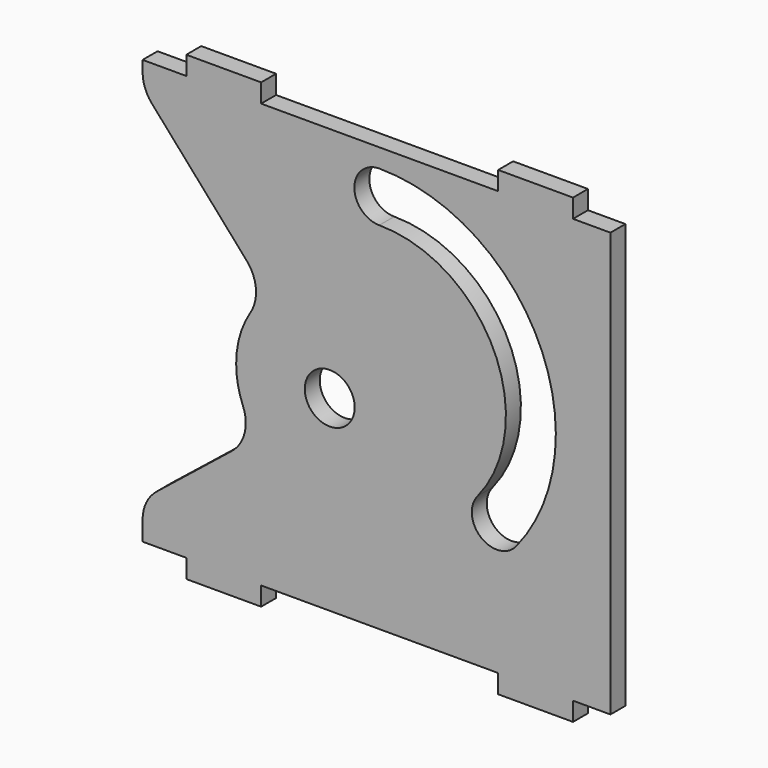
from build123d import *

# Parameters (mm, degrees)
F1_DEPTH = 1.5


with BuildPart() as f1:
    # F0 (on Front) → F1 (new body)
    with BuildSketch(Plane.XZ):
        with BuildLine():
            Line((9, -19), (15, -19))
            Line((15, -19), (15, -17.5))
            Line((15, -17.5), (18, -17.5))
            Line((18, -17.5), (18, 16.5))
            Line((18, 16.5), (15, 16.5))
            Line((15, 16.5), (15, 18))
            Line((15, 18), (9, 18))
            Line((9, 18), (9, 16.5))
            Line((9, 16.5), (-10, 16.5))
            Line((-10, 16.5), (-10, 18))
            Line((-10, 18), (-16, 18))
            Line((-16, 18), (-16, 16.5))
            Line((-16, 16.5), (-19.5, 16.5))
            Line((-19.5, 16.5), (-19.5, 15.634314))
            ThreePointArc((-19.5, 15.634314), (-19.306113, 14.57331), (-18.749514, 13.649449))
            Line((-18.749514, 13.649449), (-11.157439, 5.045098))
            ThreePointArc((-11.157439, 5.045098), (-10.417146, 3.307324), (-10.862109, 1.471595))
            ThreePointArc((-10.862109, 1.471595), (-11.709917, -0.434306), (-12, -2.5))
            ThreePointArc((-12, -2.5), (-11.861475, -3.93481), (-11.451019, -5.316619))
            ThreePointArc((-11.451019, -5.316619), (-11.32884, -7.20155), (-12.357341, -8.785873))
            Line((-12.357341, -8.785873), (-18.374085, -13.599268))
            ThreePointArc((-18.374085, -13.599268), (-19.20391, -14.642308), (-19.5, -15.941875))
            Line((-19.5, -15.941875), (-19.5, -17.5))
            Line((-19.5, -17.5), (-16, -17.5))
            Line((-16, -17.5), (-16, -19))
            Line((-16, -19), (-10, -19))
            Line((-10, -19), (-10, -17.5))
            Line((-10, -17.5), (9, -17.5))
            Line((9, -17.5), (9, -19))
        make_face()
        with BuildLine():
            ThreePointArc((-2.5, -2.5), (-4.5, -4.5), (-6.5, -2.5))
            ThreePointArc((-6.5, -2.5), (-4.5, -0.5), (-2.5, -2.5))
        make_face(mode=Mode.SUBTRACT)
        with BuildLine():
            ThreePointArc((10.470654, -8.054456), (7.629322, -8.385303), (7.361973, -5.537295))
            ThreePointArc((7.361973, -5.537295), (8.634848, 5.219866), (-0.526307, 11))
            ThreePointArc((-0.526307, 11), (-2.526307, 13), (-0.526307, 15))
            ThreePointArc((-0.526307, 15), (12.245156, 6.94198), (10.470654, -8.054456))
        make_face(mode=Mode.SUBTRACT)
    extrude(amount=F1_DEPTH)


solid = f1.part
